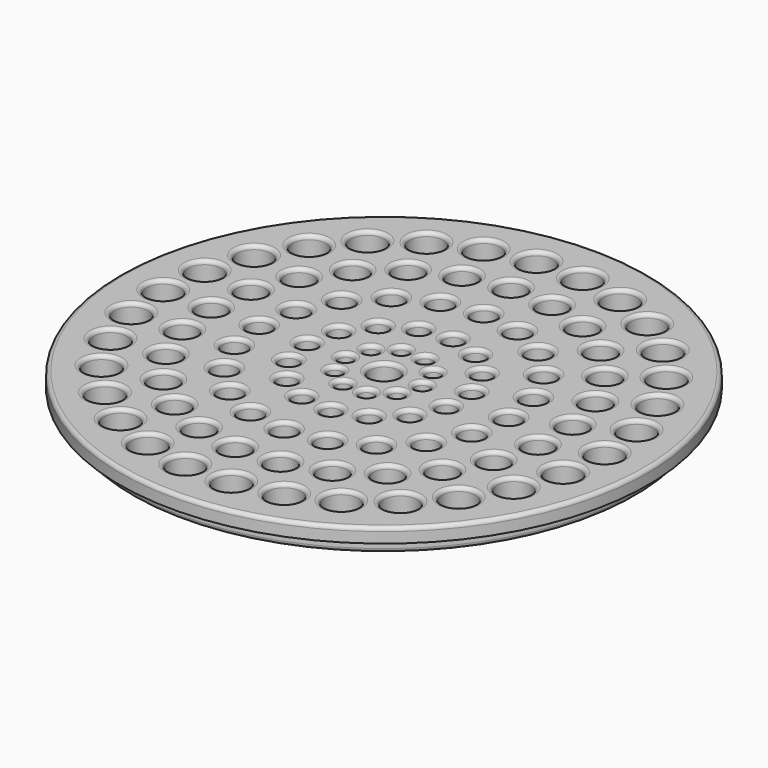
from build123d import *

# Parameters (mm, degrees)
SKETCH020_R           = 3.5
POCKET008_DEPTH       = 100
POCKET008_DEPTH_BACK  = 100
POLARPATTERN005_COUNT = 30
SKETCH021_R           = 3
POCKET009_DEPTH       = 100
POCKET009_DEPTH_BACK  = 100
POLARPATTERN006_COUNT = 25
SKETCH022_R           = 2.5
POCKET010_DEPTH       = 100
POCKET010_DEPTH_BACK  = 100
POLARPATTERN007_COUNT = 20
SKETCH023_R           = 2
POCKET011_DEPTH       = 100
POCKET011_DEPTH_BACK  = 100
POLARPATTERN008_COUNT = 15
SKETCH024_R           = 1.5
POCKET012_DEPTH       = 100
POCKET012_DEPTH_BACK  = 100
POLARPATTERN009_COUNT = 10
SKETCH025_R           = 3
POCKET013_DEPTH       = 100
POCKET013_DEPTH_BACK  = 100
FILLET005_R           = 0.8


with BuildPart() as part:
    # Sketch019 → Revolution003 (revolve)
    with BuildSketch(Plane.XZ):
        Polygon((-55, 23), (0, 23), (0, 17), (-52.5, 17), (-52.5, 20), (-55, 20), align=None)
    revolve(axis=Axis((0, 0, 0), (0, 0, 1)))

    # Sketch020 → Pocket008 (cut, two sides)
    with BuildSketch(Plane.XY) as pocket008_sk:
        with Locations((-46, 0)):
            Circle(SKETCH020_R)
    pocket008 = extrude(amount=-POCKET008_DEPTH, mode=Mode.SUBTRACT) + extrude(pocket008_sk.sketch, amount=POCKET008_DEPTH_BACK, mode=Mode.SUBTRACT)

    # PolarPattern005: Pocket008 ×30 about axis
    polarpattern005_axis = Axis((0, 0, 0), (0, 0, 1))
    for i in range(1, POLARPATTERN005_COUNT):
        add(pocket008.rotate(polarpattern005_axis, i * 360 / POLARPATTERN005_COUNT), mode=Mode.SUBTRACT)

    # Sketch021 → Pocket009 (cut, two sides)
    with BuildSketch(Plane.XY) as pocket009_sk:
        with Locations((-36, 0)):
            Circle(SKETCH021_R)
    pocket009 = extrude(amount=-POCKET009_DEPTH, mode=Mode.SUBTRACT) + extrude(pocket009_sk.sketch, amount=POCKET009_DEPTH_BACK, mode=Mode.SUBTRACT)

    # PolarPattern006: Pocket009 ×25 about axis
    polarpattern006_axis = Axis((0, 0, 0), (0, 0, 1))
    for i in range(1, POLARPATTERN006_COUNT):
        add(pocket009.rotate(polarpattern006_axis, i * 360 / POLARPATTERN006_COUNT), mode=Mode.SUBTRACT)

    # Sketch022 → Pocket010 (cut, two sides)
    with BuildSketch(Plane.XY) as pocket010_sk:
        with Locations((-26, 0)):
            Circle(SKETCH022_R)
    pocket010 = extrude(amount=-POCKET010_DEPTH, mode=Mode.SUBTRACT) + extrude(pocket010_sk.sketch, amount=POCKET010_DEPTH_BACK, mode=Mode.SUBTRACT)

    # PolarPattern007: Pocket010 ×20 about axis
    polarpattern007_axis = Axis((0, 0, 0), (0, 0, 1))
    for i in range(1, POLARPATTERN007_COUNT):
        add(pocket010.rotate(polarpattern007_axis, i * 360 / POLARPATTERN007_COUNT), mode=Mode.SUBTRACT)

    # Sketch023 → Pocket011 (cut, two sides)
    with BuildSketch(Plane.XY) as pocket011_sk:
        with Locations((-16, 0)):
            Circle(SKETCH023_R)
    pocket011 = extrude(amount=-POCKET011_DEPTH, mode=Mode.SUBTRACT) + extrude(pocket011_sk.sketch, amount=POCKET011_DEPTH_BACK, mode=Mode.SUBTRACT)

    # PolarPattern008: Pocket011 ×15 about axis
    polarpattern008_axis = Axis((0, 0, 0), (0, 0, 1))
    for i in range(1, POLARPATTERN008_COUNT):
        add(pocket011.rotate(polarpattern008_axis, i * 360 / POLARPATTERN008_COUNT), mode=Mode.SUBTRACT)

    # Sketch024 → Pocket012 (cut, two sides)
    with BuildSketch(Plane.XY) as pocket012_sk:
        with Locations((-8, 0)):
            Circle(SKETCH024_R)
    pocket012 = extrude(amount=-POCKET012_DEPTH, mode=Mode.SUBTRACT) + extrude(pocket012_sk.sketch, amount=POCKET012_DEPTH_BACK, mode=Mode.SUBTRACT)

    # PolarPattern009: Pocket012 ×10 about axis
    polarpattern009_axis = Axis((0, 0, 0), (0, 0, 1))
    for i in range(1, POLARPATTERN009_COUNT):
        add(pocket012.rotate(polarpattern009_axis, i * 360 / POLARPATTERN009_COUNT), mode=Mode.SUBTRACT)

    # Sketch025 → Pocket013 (cut, two sides)
    with BuildSketch(Plane.XY) as pocket013_sk:
        Circle(SKETCH025_R)
    extrude(amount=-POCKET013_DEPTH, mode=Mode.SUBTRACT)
    extrude(pocket013_sk.sketch, amount=POCKET013_DEPTH_BACK, mode=Mode.SUBTRACT)

    # Fillet005
    fillet005_edges = [part.edges().sort_by_distance(p)[0] for p in [
        (55, 0, 23),
        (40.046341, 29.09537, 23),
        (33.121965, 36.785669, 23),
        (15.296341, 47.077298, 23),
        (24.75, 42.868257, 23),
        (5.174159, 49.228834, 23),
        (16.605392, 35.288255, 23),
        (24.859536, 30.050016, 23),
        (7.307871, 38.309203, 23),
        (8.806984, 27.105111, 23),
        (0, 28.5, 23),
        (45.2205, 20.133464, 23),
        (31.551663, 22.923625, 23),
        (36.261283, 14.356858, 23),
        (48.418306, 10.291629, 23),
        (38.692473, 4.887996, 23),
        (16.75188, 23.056984, 23),
        (23.056984, 16.75188, 23),
        (9, 15.588457, 23),
        (1.881512, 17.901394, 23),
        (27.105111, 8.806984, 23),
        (14.562306, 10.580135, 23),
        (17.606657, 3.74241, 23),
        (2.935661, 9.035037, 23),
        (7.685661, 5.58396, 23),
        (-5.174159, 49.228834, 23),
        (-15.296341, 47.077298, 23),
        (-24.75, 42.868257, 23),
        (-2.44883, 38.923042, 23),
        (-12.051663, 37.091204, 23),
        (-8.806984, 27.105111, 23),
        (-20.897245, 32.928789, 23),
        (-33.121965, 36.785669, 23),
        (-28.429776, 26.697337, 23),
        (-40.046341, 29.09537, 23),
        (-5.562306, 17.119017, 23),
        (-16.75188, 23.056984, 23),
        (-23.056984, 16.75188, 23),
        (-2.935661, 9.035037, 23),
        (-12.044351, 13.376607, 23),
        (-7.685661, 5.58396, 23),
        (-16.443818, 7.32126, 23),
        (-27.105111, 8.806984, 23),
        (-34.175961, 18.788393, 23),
        (-45.2205, 20.133464, 23),
        (-37.774743, 9.698906, 23),
        (-48.418306, 10.291629, 23),
        (49.5, 0, 23),
        (48.418306, -10.291629, 23),
        (38.692473, -4.887996, 23),
        (28.5, 0, 23),
        (45.2205, -20.133464, 23),
        (36.261283, -14.356858, 23),
        (31.551663, -22.923625, 23),
        (17.606657, -3.74241, 23),
        (27.105111, -8.806984, 23),
        (14.562306, -10.580135, 23),
        (9.5, 0, 23),
        (7.685661, -5.58396, 23),
        (2.935661, -9.035037, 23),
        (23.056984, -16.75188, 23),
        (16.75188, -23.056984, 23),
        (9, -15.588457, 23),
        (1.881512, -17.901394, 23),
        (40.046341, -29.09537, 23),
        (33.121965, -36.785669, 23),
        (24.859536, -30.050016, 23),
        (16.605392, -35.288255, 23),
        (8.806984, -27.105111, 23),
        (7.307871, -38.309203, 23),
        (24.75, -42.868257, 23),
        (15.296341, -47.077298, 23),
        (5.174159, -49.228834, 23),
        (-3, 0, 23),
        (-9.5, 0, 23),
        (-7.685661, -5.58396, 23),
        (-2.935661, -9.035037, 23),
        (-12.044351, -13.376607, 23),
        (-18, 0, 23),
        (-16.443818, -7.32126, 23),
        (-27.105111, -8.806984, 23),
        (-5.562306, -17.119017, 23),
        (-23.056984, -16.75188, 23),
        (-16.75188, -23.056984, 23),
        (-28.5, 0, 23),
        (-39, 0, 23),
        (-37.774743, -9.698906, 23),
        (-49.5, 0, 23),
        (-48.418306, -10.291629, 23),
        (-34.175961, -18.788393, 23),
        (-45.2205, -20.133464, 23),
        (0, -28.5, 23),
        (-8.806984, -27.105111, 23),
        (-2.44883, -38.923042, 23),
        (-12.051663, -37.091204, 23),
        (-20.897245, -32.928789, 23),
        (-5.174159, -49.228834, 23),
        (-24.75, -42.868257, 23),
        (-15.296341, -47.077298, 23),
        (-28.429776, -26.697337, 23),
        (-33.121965, -36.785669, 23),
        (-40.046341, -29.09537, 23),
        (52.5, 0, 17),
        (-40.046341, 29.09537, 17),
        (-33.121965, 36.785669, 17),
        (-28.429776, 26.697337, 17),
        (-15.296341, 47.077298, 17),
        (-24.75, 42.868257, 17),
        (-5.174159, 49.228834, 17),
        (-20.897245, 32.928789, 17),
        (-12.051663, 37.091204, 17),
        (-2.44883, 38.923042, 17),
        (-8.806984, 27.105111, 17),
        (-45.2205, 20.133464, 17),
        (-34.175961, 18.788393, 17),
        (-48.418306, 10.291629, 17),
        (-37.774743, 9.698906, 17),
        (-16.75188, 23.056984, 17),
        (-23.056984, 16.75188, 17),
        (-5.562306, 17.119017, 17),
        (-27.105111, 8.806984, 17),
        (-16.443818, 7.32126, 17),
        (-12.044351, 13.376607, 17),
        (-2.935661, 9.035037, 17),
        (-7.685661, 5.58396, 17),
        (5.174159, 49.228834, 17),
        (15.296341, 47.077298, 17),
        (24.75, 42.868257, 17),
        (7.307871, 38.309203, 17),
        (0, 28.5, 17),
        (8.806984, 27.105111, 17),
        (16.605392, 35.288255, 17),
        (24.859536, 30.050016, 17),
        (33.121965, 36.785669, 17),
        (40.046341, 29.09537, 17),
        (1.881512, 17.901394, 17),
        (9, 15.588457, 17),
        (16.75188, 23.056984, 17),
        (23.056984, 16.75188, 17),
        (2.935661, 9.035037, 17),
        (7.685661, 5.58396, 17),
        (14.562306, 10.580135, 17),
        (27.105111, 8.806984, 17),
        (17.606657, 3.74241, 17),
        (31.551663, 22.923625, 17),
        (36.261283, 14.356858, 17),
        (45.2205, 20.133464, 17),
        (38.692473, 4.887996, 17),
        (48.418306, 10.291629, 17),
        (-49.5, 0, 17),
        (-48.418306, -10.291629, 17),
        (-39, 0, 17),
        (-28.5, 0, 17),
        (-37.774743, -9.698906, 17),
        (-45.2205, -20.133464, 17),
        (-34.175961, -18.788393, 17),
        (-18, 0, 17),
        (-27.105111, -8.806984, 17),
        (-16.443818, -7.32126, 17),
        (-9.5, 0, 17),
        (-7.685661, -5.58396, 17),
        (-12.044351, -13.376607, 17),
        (-2.935661, -9.035037, 17),
        (-23.056984, -16.75188, 17),
        (-16.75188, -23.056984, 17),
        (-5.562306, -17.119017, 17),
        (-40.046341, -29.09537, 17),
        (-28.429776, -26.697337, 17),
        (-33.121965, -36.785669, 17),
        (-20.897245, -32.928789, 17),
        (-8.806984, -27.105111, 17),
        (-12.051663, -37.091204, 17),
        (-2.44883, -38.923042, 17),
        (-24.75, -42.868257, 17),
        (-15.296341, -47.077298, 17),
        (-5.174159, -49.228834, 17),
        (-3, 0, 17),
        (9.5, 0, 17),
        (7.685661, -5.58396, 17),
        (2.935661, -9.035037, 17),
        (17.606657, -3.74241, 17),
        (14.562306, -10.580135, 17),
        (27.105111, -8.806984, 17),
        (1.881512, -17.901394, 17),
        (9, -15.588457, 17),
        (23.056984, -16.75188, 17),
        (16.75188, -23.056984, 17),
        (28.5, 0, 17),
        (38.692473, -4.887996, 17),
        (49.5, 0, 17),
        (48.418306, -10.291629, 17),
        (36.261283, -14.356858, 17),
        (31.551663, -22.923625, 17),
        (45.2205, -20.133464, 17),
        (0, -28.5, 17),
        (8.806984, -27.105111, 17),
        (7.307871, -38.309203, 17),
        (24.859536, -30.050016, 17),
        (16.605392, -35.288255, 17),
        (5.174159, -49.228834, 17),
        (24.75, -42.868257, 17),
        (15.296341, -47.077298, 17),
        (33.121965, -36.785669, 17),
        (40.046341, -29.09537, 17),
    ]]
    fillet(fillet005_edges, radius=FILLET005_R)


solid = part.part
